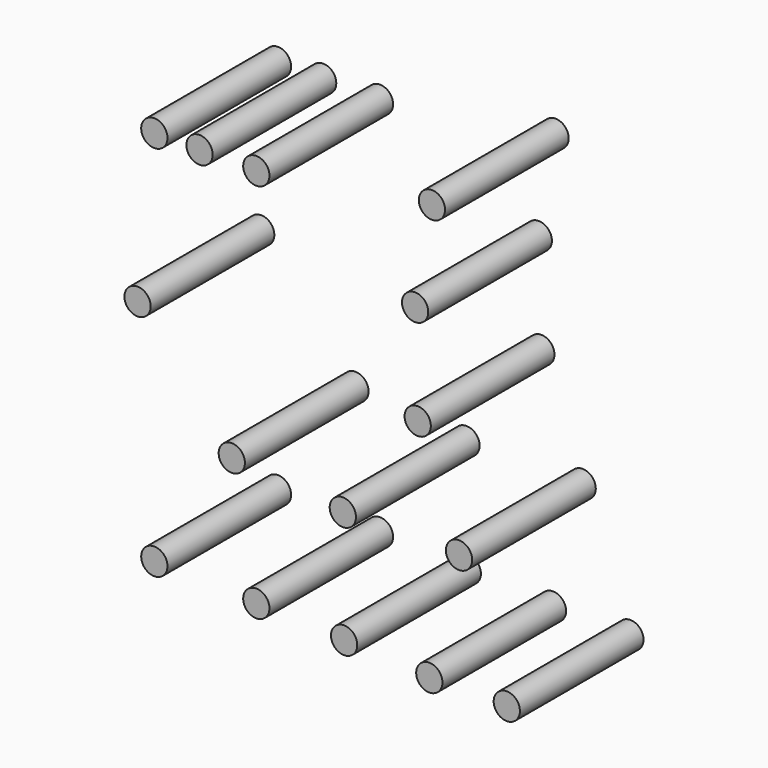
from build123d import *

# Parameters (mm, degrees)
F0_R     = 1.94736
F0_R_2   = 1.9431
F1_DEPTH = 22.86


with BuildPart() as f1:
    # F0 (on Front) → F1 (new body)
    with BuildSketch(Plane.XZ):
        with Locations((-60.246196, 43.442186)):
            Circle(F0_R)
        with Locations((-53.562783, 43.442186)):
            Circle(F0_R_2)
        with Locations((-45.160774, 43.442186)):
            Circle(F0_R_2)
        with Locations((-62.728606, 20.71858)):
            Circle(F0_R_2)
        with Locations((-21.291444, 18.618079)):
            Circle(F0_R_2)
        with Locations((-21.673353, 33.321589)):
            Circle(F0_R_2)
        with Locations((-19.190943, 47.45223)):
            Circle(F0_R_2)
        with Locations((-48.788916, 4.869344)):
            Circle(F0_R_2)
        with Locations((-32.366812, 3.150752)):
            Circle(F0_R_2)
        with Locations((-15.180895, 3.150752)):
            Circle(F0_R_2)
        with Locations((-60.246196, -12.316575)):
            Circle(F0_R_2)
        with Locations((-45.160774, -12.889439)):
            Circle(F0_R_2)
        with Locations((-32.175858, -13.462303)):
            Circle(F0_R_2)
        with Locations((-19.572852, -14.226122)):
            Circle(F0_R_2)
        with Locations((-8.115573, -14.226122)):
            Circle(F0_R_2)
    extrude(amount=F1_DEPTH)


solid = f1.part
